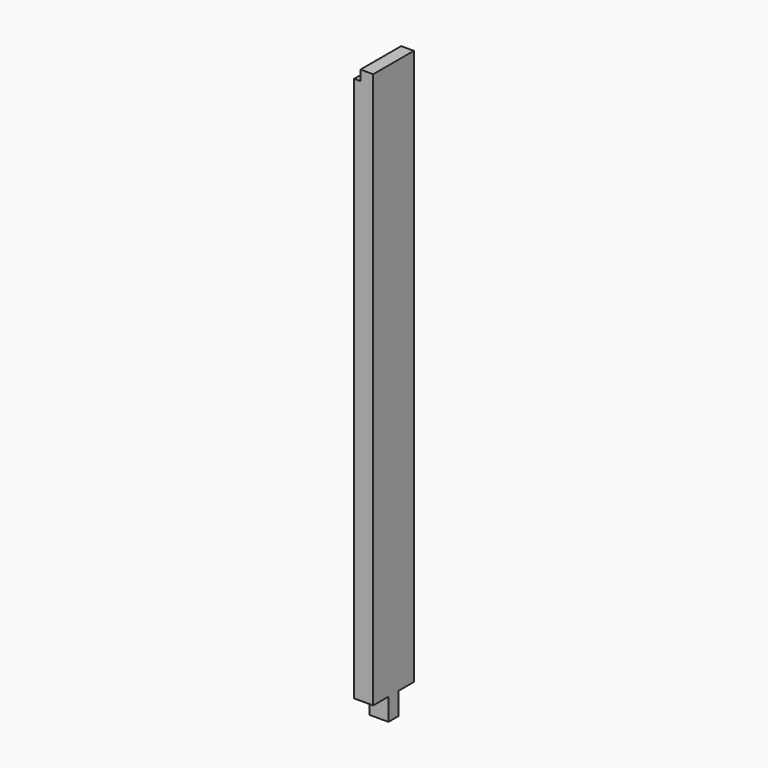
from build123d import *

# Parameters (mm, degrees)
F0_W     = 50.8
F0_H     = 88.9
F1_DEPTH = 76.2
F2_W     = 25.396194309
F2_H     = 40.7490301132
F3_DEPTH = 203.2


with BuildPart() as f1:
    # F0 (on Right) → F1 (new body)
    with BuildSketch(Plane.YZ):
        Polygon((101.6, -1111.25), (101.6, 1111.25), (-101.6, 1111.25), (-101.6, -1111.25), (-25.4, -1111.25), (-25.4, -1022.35), (25.4, -1022.35), (25.4, -1111.25), align=None)
        with Locations((0, -1155.7)):
            Rectangle(F0_W, F0_H)
        with Locations((0, -1066.8)):
            Rectangle(F0_W, F0_H)
    extrude(amount=F1_DEPTH)

    # F2 (on face) → F3 (cut)
    with BuildSketch(Plane.XZ.offset(101.6)):
        with Locations((12.6980971545, 1090.8754849434)):
            Rectangle(F2_W, F2_H)
    extrude(amount=-F3_DEPTH, mode=Mode.SUBTRACT)


solid = f1.part
